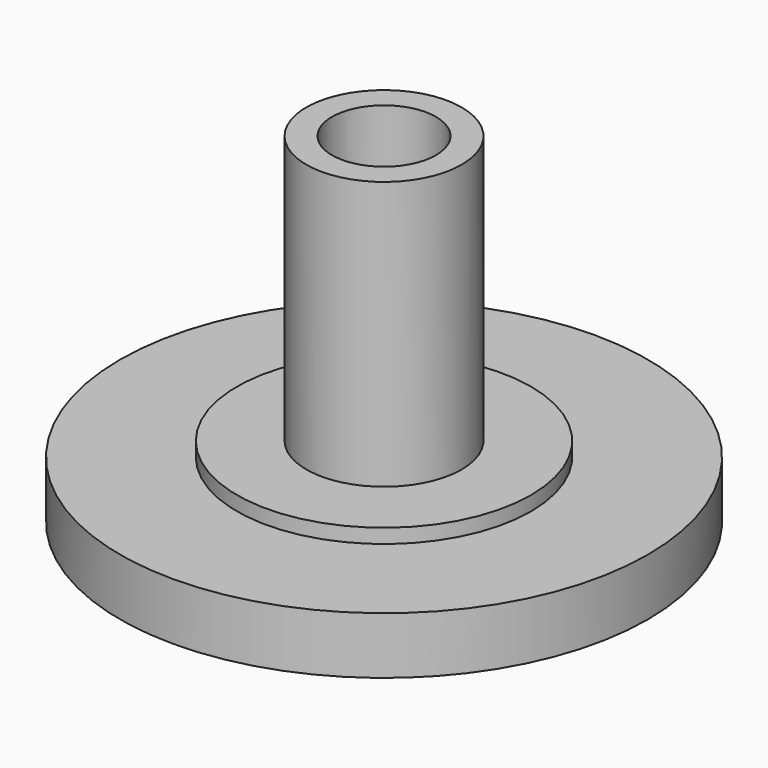
from build123d import *

# Parameters (mm, degrees)
F0_R     = 2.6162
F0_R_2   = 1.75
F1_DEPTH = 9.52
F0_R_3   = 4.950253
F0_R_4   = 3.75
F2_DEPTH = 0.4826
F3_DEPTH = 2.05
F0_R_5   = 8.89
F4_DEPTH = 1.92


with BuildPart() as f1:
    # F0 (on Top) → F1 (new body)
    with BuildSketch(Plane.XY):
        Circle(F0_R)
        Circle(F0_R_2, mode=Mode.SUBTRACT)
    extrude(amount=F1_DEPTH)

    # F0 (on Top) → F2 (join)
    with BuildSketch(Plane.XY):
        Circle(F0_R_3)
        Circle(F0_R_4, mode=Mode.SUBTRACT)
        Circle(F0_R_4)
        Circle(F0_R, mode=Mode.SUBTRACT)
    extrude(amount=F2_DEPTH)

    # F0 (on Top) → F3 (join)
    with BuildSketch(Plane.XY):
        Circle(F0_R_3)
        Circle(F0_R_4, mode=Mode.SUBTRACT)
    extrude(amount=-F3_DEPTH)

    # F0 (on Top) → F4 (join)
    with BuildSketch(Plane.XY):
        Circle(F0_R_5)
        Circle(F0_R_3, mode=Mode.SUBTRACT)
    extrude(amount=-F4_DEPTH)


solid = f1.part
